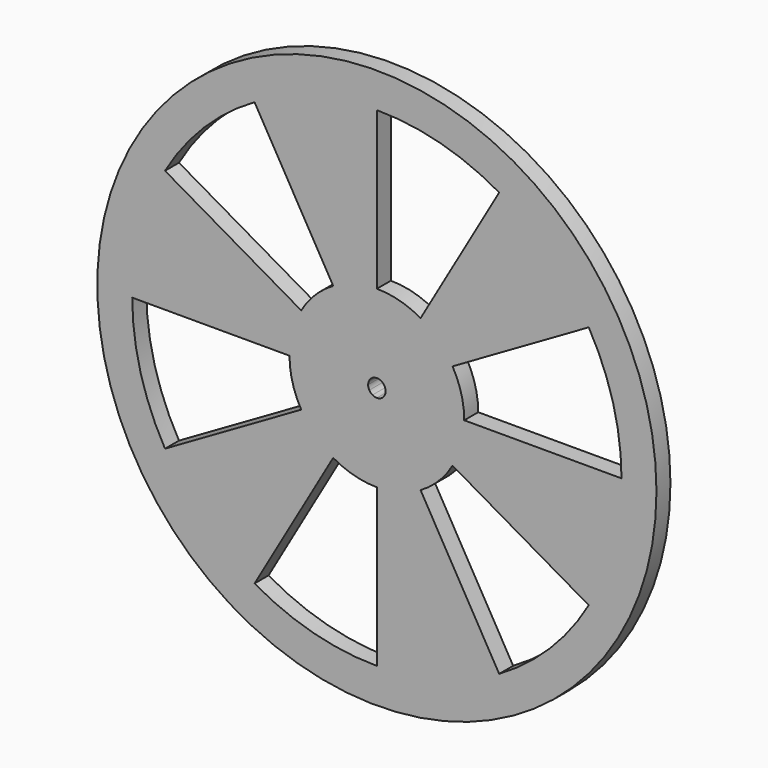
from build123d import *

# Parameters (mm, degrees)
F0_R     = 50.8
F1_DEPTH = 3.175


with BuildPart() as f1:
    # F0 (on Front) → F1 (new body)
    with BuildSketch(Plane.XZ):
        Circle(F0_R)
        with BuildLine():
            ThreePointArc((-38.494829, 22.225), (-31.430896, 31.430896), (-22.225, 38.494829))
            Line((-22.225, 38.494829), (-7.9375, 13.748153))
            ThreePointArc((-7.9375, 13.748153), (-4.108752, 15.334072), (0, 15.875))
            Line((0, 15.875), (0, 44.45))
            ThreePointArc((0, 44.45), (11.504507, 42.935403), (22.225, 38.494829))
            Line((22.225, 38.494829), (7.9375, 13.748153))
            ThreePointArc((7.9375, 13.748153), (11.22532, 11.22532), (13.748153, 7.9375))
            Line((13.748153, 7.9375), (38.494829, 22.225))
            ThreePointArc((38.494829, 22.225), (42.935403, 11.504507), (44.45, 0))
            Line((44.45, 0), (15.875, 0))
            ThreePointArc((15.875, 0), (15.334072, -4.108752), (13.748153, -7.9375))
            Line((13.748153, -7.9375), (38.494829, -22.225))
            ThreePointArc((38.494829, -22.225), (31.430896, -31.430896), (22.225, -38.494829))
            Line((22.225, -38.494829), (7.9375, -13.748153))
            ThreePointArc((7.9375, -13.748153), (4.108752, -15.334072), (0, -15.875))
            Line((0, -15.875), (0, -44.45))
            ThreePointArc((0, -44.45), (-11.504507, -42.935403), (-22.225, -38.494829))
            Line((-22.225, -38.494829), (-7.9375, -13.748153))
            ThreePointArc((-7.9375, -13.748153), (-11.22532, -11.22532), (-13.748153, -7.9375))
            Line((-13.748153, -7.9375), (-38.494829, -22.225))
            ThreePointArc((-38.494829, -22.225), (-42.935403, -11.504507), (-44.45, 0))
            Line((-44.45, 0), (-15.875, 0))
            ThreePointArc((-15.875, 0), (-15.334072, 4.108752), (-13.748153, 7.9375))
            Line((-13.748153, 7.9375), (-38.494829, 22.225))
        make_face(mode=Mode.SUBTRACT)
        with BuildLine():
            ThreePointArc((0, 15.875), (-4.108752, 15.334072), (-7.9375, 13.748153))
            ThreePointArc((-7.9375, 13.748153), (-11.22532, 11.22532), (-13.748153, 7.9375))
            ThreePointArc((-13.748153, 7.9375), (-15.334072, 4.108752), (-15.875, 0))
            ThreePointArc((-15.875, 0), (-15.334072, -4.108752), (-13.748153, -7.9375))
            ThreePointArc((-13.748153, -7.9375), (-11.22532, -11.22532), (-7.9375, -13.748153))
            ThreePointArc((-7.9375, -13.748153), (-4.108752, -15.334072), (0, -15.875))
            ThreePointArc((0, -15.875), (4.108752, -15.334072), (7.9375, -13.748153))
            ThreePointArc((7.9375, -13.748153), (11.22532, -11.22532), (13.748153, -7.9375))
            ThreePointArc((13.748153, -7.9375), (15.334072, -4.108752), (15.875, 0))
            ThreePointArc((15.875, 0), (15.334072, 4.108752), (13.748153, 7.9375))
            ThreePointArc((13.748153, 7.9375), (11.22532, 11.22532), (7.9375, 13.748153))
            ThreePointArc((7.9375, 13.748153), (4.108752, 15.334072), (0, 15.875))
        make_face()
        with BuildLine():
            ThreePointArc((1.374815, 0.79375), (1.533407, 0.410875), (1.5875, 0))
            ThreePointArc((1.5875, 0), (1.533407, -0.410875), (1.374815, -0.79375))
            ThreePointArc((1.374815, -0.79375), (1.122532, -1.122532), (0.79375, -1.374815))
            ThreePointArc((0.79375, -1.374815), (0.410875, -1.533407), (0, -1.5875))
            ThreePointArc((0, -1.5875), (-0.410875, -1.533407), (-0.79375, -1.374815))
            ThreePointArc((-0.79375, -1.374815), (-1.122532, -1.122532), (-1.374815, -0.79375))
            ThreePointArc((-1.374815, -0.79375), (-1.533407, -0.410875), (-1.5875, 0))
            ThreePointArc((-1.5875, 0), (-1.533407, 0.410875), (-1.374815, 0.79375))
            ThreePointArc((-1.374815, 0.79375), (-1.122532, 1.122532), (-0.79375, 1.374815))
            ThreePointArc((-0.79375, 1.374815), (-0.410875, 1.533407), (0, 1.5875))
            ThreePointArc((0, 1.5875), (0.410875, 1.533407), (0.79375, 1.374815))
            ThreePointArc((0.79375, 1.374815), (1.122532, 1.122532), (1.374815, 0.79375))
        make_face(mode=Mode.SUBTRACT)
    extrude(amount=F1_DEPTH)


solid = f1.part
